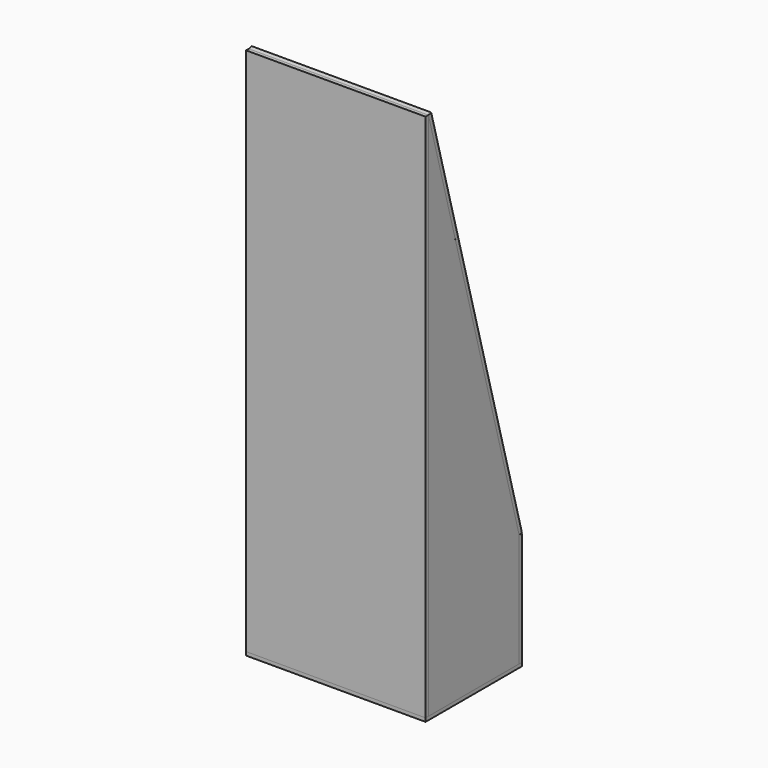
from build123d import *

# Parameters (mm, degrees)
F1_DEPTH  = 9.525
F2_W      = 482.6
F2_H      = 304.8
F3_DEPTH  = 9.525
F4_W      = 482.6
F4_H      = 1158.418232
F5_DEPTH  = 9.525
F6_W      = 482.6
F6_H      = 1422.4
F7_DEPTH  = 9.525
F8_W      = 482.6
F8_H      = 323.85
F9_DEPTH  = 9.525
F10_R     = 16.764
F11_DEPTH = 12.7
F12_W     = 463.55
F12_H     = 88.9
F12_R     = 16.764
F13_DEPTH = 12.7
F14_R     = 16.7005
F14_R_2   = 13.335
F15_DEPTH = 254


with BuildPart() as f1:
    # F0 (on Right) → F1 (new body)
    with BuildSketch(Plane.YZ):
        Polygon((0, 1422.4), (0, 0), (304.8, 0), (304.8, 304.8), align=None)
    extrude(amount=F1_DEPTH)


with BuildPart() as f3:
    # F2 (on face) → F3 (new body)
    with BuildSketch(Plane(origin=(0, 304.8, 0), x_dir=(-1, 0, 0), z_dir=(0, 1, 0))):
        with Locations((231.775, 152.4)):
            Rectangle(F2_W, F2_H)
    extrude(amount=F3_DEPTH)


with BuildPart() as f5:
    # F4 (on face) → F5 (new body)
    with BuildSketch(Plane(origin=(0, 361.070769, 98.473846), x_dir=(-1, 0, 0), z_dir=(0, 0.964764, 0.263117))):
        with Locations((231.775, 793.070943)):
            Rectangle(F4_W, F4_H)
    extrude(amount=F5_DEPTH)

    # F10 (on face) → F11 (cut)
    with BuildSketch(Plane(origin=(0, 370.260145, 100.980039), x_dir=(-1, 0, 0), z_dir=(0, 0.964764, 0.263117))):
        with Locations((41.275, 290.061827)):
            Circle(F10_R)
        with Locations((41.275, 391.661827)):
            Circle(F10_R)
        with Locations((168.275, 290.061827)):
            Circle(F10_R)
        with Locations((168.275, 391.661827)):
            Circle(F10_R)
        with Locations((295.275, 290.061827)):
            Circle(F10_R)
        with Locations((295.275, 391.661827)):
            Circle(F10_R)
        with Locations((422.275, 290.061827)):
            Circle(F10_R)
        with Locations((422.275, 391.661827)):
            Circle(F10_R)
        with Locations((422.275, 696.461827)):
            Circle(F10_R)
        with Locations((422.275, 798.061827)):
            Circle(F10_R)
        with Locations((168.275, 696.461827)):
            Circle(F10_R)
        with Locations((168.275, 798.061827)):
            Circle(F10_R)
        with Locations((295.275, 696.461827)):
            Circle(F10_R)
        with Locations((41.275, 798.061827)):
            Circle(F10_R)
        with Locations((41.275, 696.461827)):
            Circle(F10_R)
        with Locations((295.275, 798.061827)):
            Circle(F10_R)
        with Locations((422.275, 1102.861827)):
            Circle(F10_R)
        with Locations((422.275, 1204.461827)):
            Circle(F10_R)
        with Locations((168.275, 1102.861827)):
            Circle(F10_R)
        with Locations((168.275, 1204.461827)):
            Circle(F10_R)
        with Locations((295.275, 1102.861827)):
            Circle(F10_R)
        with Locations((41.275, 1204.461827)):
            Circle(F10_R)
        with Locations((41.275, 1102.861827)):
            Circle(F10_R)
        with Locations((295.275, 1204.461827)):
            Circle(F10_R)
        with Locations((422.275, 1509.261827)):
            Circle(F10_R)
        with Locations((422.275, 1610.861827)):
            Circle(F10_R)
        with Locations((168.275, 1509.261827)):
            Circle(F10_R)
        with Locations((168.275, 1610.861827)):
            Circle(F10_R)
        with Locations((295.275, 1509.261827)):
            Circle(F10_R)
        with Locations((41.275, 1610.861827)):
            Circle(F10_R)
        with Locations((41.275, 1509.261827)):
            Circle(F10_R)
        with Locations((295.275, 1610.861827)):
            Circle(F10_R)
    extrude(amount=-F11_DEPTH, mode=Mode.SUBTRACT)


with BuildPart() as f7:
    # F6 (on face) → F7 (new body)
    with BuildSketch(Plane.XZ):
        with Locations((-231.775, 711.2)):
            Rectangle(F6_W, F6_H)
    extrude(amount=F7_DEPTH)


with BuildPart() as f9:
    # F8 (on face) → F9 (new body)
    with BuildSketch(Plane(origin=(0, 0, 0), x_dir=(1, 0, 0), z_dir=(0, 0, -1))):
        with Locations((-231.775, -152.4)):
            Rectangle(F8_W, F8_H)
    extrude(amount=F9_DEPTH)


with BuildPart() as f13:
    # F12 (on face) → F13 (new body)
    with BuildSketch(Plane(origin=(0, 361.070769, 98.473846), x_dir=(1, 0, 0), z_dir=(0, -0.964764, -0.263117))):
        with Locations((-231.775, 290.061827)):
            Rectangle(F12_W, F12_H)
        with Locations((-422.275, 290.061827)):
            Circle(F12_R, mode=Mode.SUBTRACT)
        with Locations((-295.275, 290.061827)):
            Circle(F12_R, mode=Mode.SUBTRACT)
        with Locations((-168.275, 290.061827)):
            Circle(F12_R, mode=Mode.SUBTRACT)
        with Locations((-41.275, 290.061827)):
            Circle(F12_R, mode=Mode.SUBTRACT)
    extrude(amount=F13_DEPTH)


with BuildPart() as f15:
    # F14 (on face) → F15 (new body)
    with BuildSketch(Plane(origin=(0, 348.818269, 95.132255), x_dir=(1, 0, 0), z_dir=(0, -0.964764, -0.263117))):
        with Locations((-422.275, 290.061827)):
            Circle(F14_R)
        with Locations((-422.275, 290.061827)):
            Circle(F14_R_2, mode=Mode.SUBTRACT)
    extrude(amount=-F15_DEPTH)


solid = Compound([f1.part, f3.part, f5.part, f7.part, f9.part, f13.part, f15.part])
